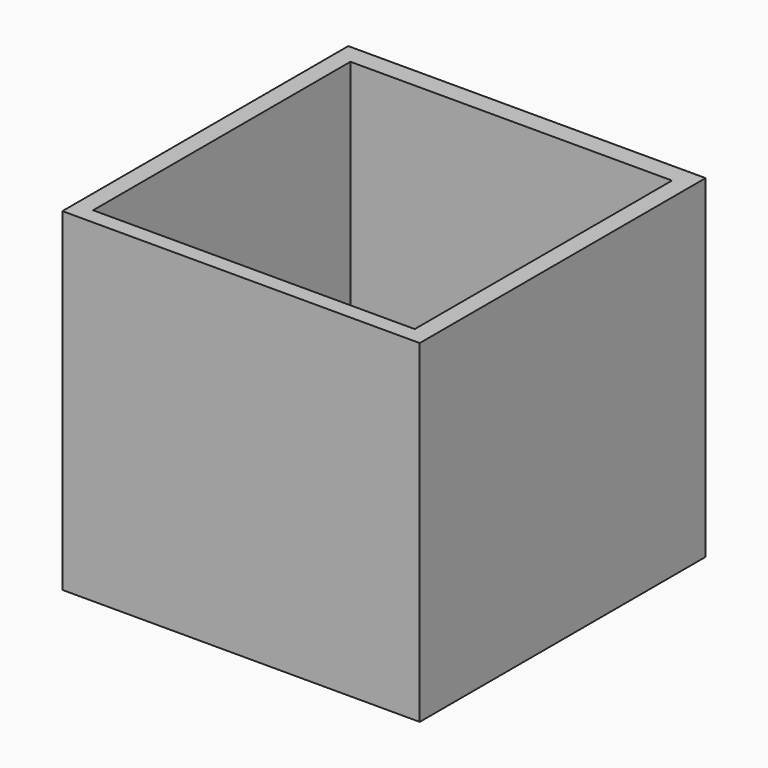
from build123d import *

# Parameters (mm, degrees)
F0_W     = 30
F0_H     = 30
F0_W_2   = 27
F0_H_2   = 27
F1_DEPTH = 1.5
F2_DEPTH = 28


with BuildPart() as f1:
    # F0 (on Top) → F1 (new body)
    with BuildSketch(Plane.XY):
        with Locations((0.075558, -0.107449)):
            Rectangle(F0_W, F0_H)
        with Locations((0.075558, -0.257449)):
            Rectangle(F0_W_2, F0_H_2, mode=Mode.SUBTRACT)
        with Locations((0.075558, -0.257449)):
            Rectangle(F0_W_2, F0_H_2)
    extrude(amount=F1_DEPTH)

    # F0 (on Top) → F2 (join)
    with BuildSketch(Plane.XY):
        with Locations((0.075558, -0.107449)):
            Rectangle(F0_W, F0_H)
        with Locations((0.075558, -0.257449)):
            Rectangle(F0_W_2, F0_H_2, mode=Mode.SUBTRACT)
    extrude(amount=F2_DEPTH)


solid = f1.part
